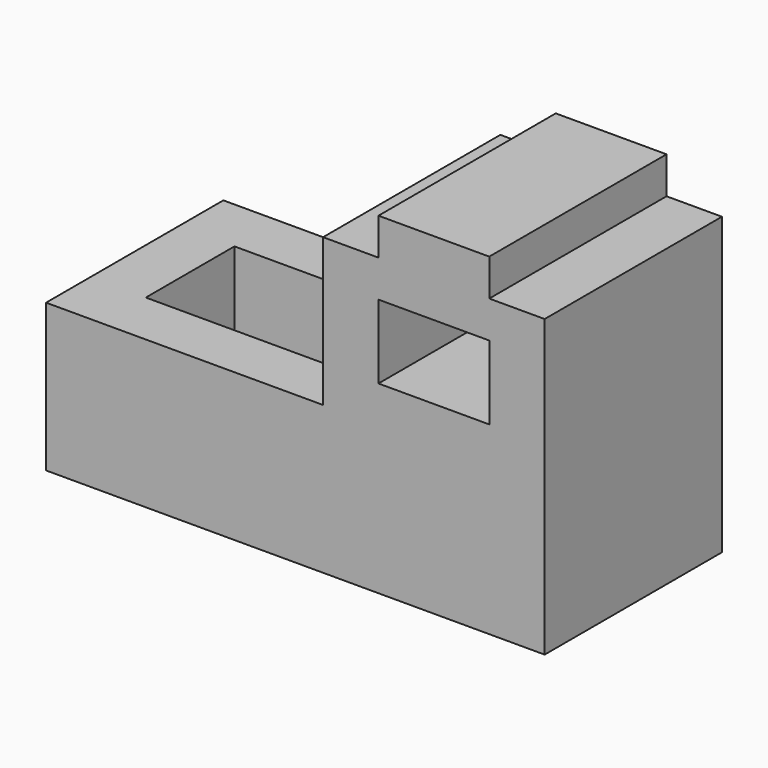
from build123d import *

# Parameters (mm, degrees)
F0_W     = 609.6
F0_H     = 406.4
F1_DEPTH = 1219.2
F2_W     = 1219.2
F2_H     = 609.6
F3_DEPTH = 812.8


with BuildPart() as f1:
    # F0 (on Front) → F1 (new body)
    with BuildSketch(Plane.XZ):
        Polygon((0, 812.8), (0, 0), (2743.2, 0), (2743.2, 1625.6), (2438.4, 1625.6), (2438.4, 1828.8), (1828.8, 1828.8), (1828.8, 1625.6), (1524, 1625.6), (1524, 812.8), align=None)
        with Locations((2133.6, 1219.2)):
            Rectangle(F0_W, F0_H, mode=Mode.SUBTRACT)
    extrude(amount=F1_DEPTH)

    # F2 (on face) → F3 (cut)
    with BuildSketch(Plane.XY.offset(812.8)):
        with Locations((914.4, -609.6)):
            Rectangle(F2_W, F2_H)
    extrude(amount=-F3_DEPTH, mode=Mode.SUBTRACT)


solid = f1.part
